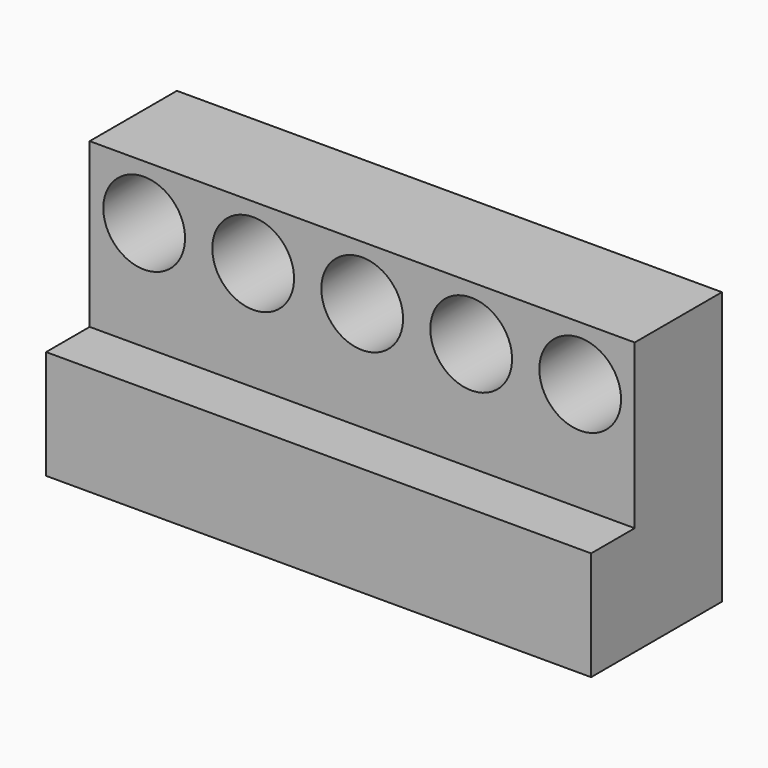
from build123d import *

# Parameters (mm, degrees)
F0_W     = 254
F0_H     = 127
F1_DEPTH = 76.2
F2_W     = 25.4
F2_H     = 76.2
F3_DEPTH = 255.778
F5_D     = 38.1
F6_D     = 38.1
F7_D     = 38.1


with BuildPart() as f1:
    # F0 (on Front) → F1 (new body)
    with BuildSketch(Plane.XZ):
        with Locations((-2.316557, -18.004625)):
            Rectangle(F0_W, F0_H)
    extrude(amount=F1_DEPTH)

    # F2 (on face) → F3 (cut)
    with BuildSketch(Plane.YZ.offset(124.683443)):
        with Locations((-63.5, 7.395375)):
            Rectangle(F2_W, F2_H)
    extrude(amount=-F3_DEPTH, mode=Mode.SUBTRACT)

    # F5 (through all)
    with Locations(Plane.XZ.offset(50.8)):
        with Locations((-103.916557, 20.095375)):
            Hole(F5_D / 2)

    # F6 (through all)
    with Locations(Plane.XZ.offset(50.8)):
        with Locations((-53.116557, 20.095375)):
            Hole(F6_D / 2)

    # F7 (through all)
    with Locations(Plane.XZ.offset(50.8)):
        with Locations((-2.316557, 20.095375), (48.483443, 20.095375), (99.283443, 20.095375)):
            Hole(F7_D / 2)


solid = f1.part
